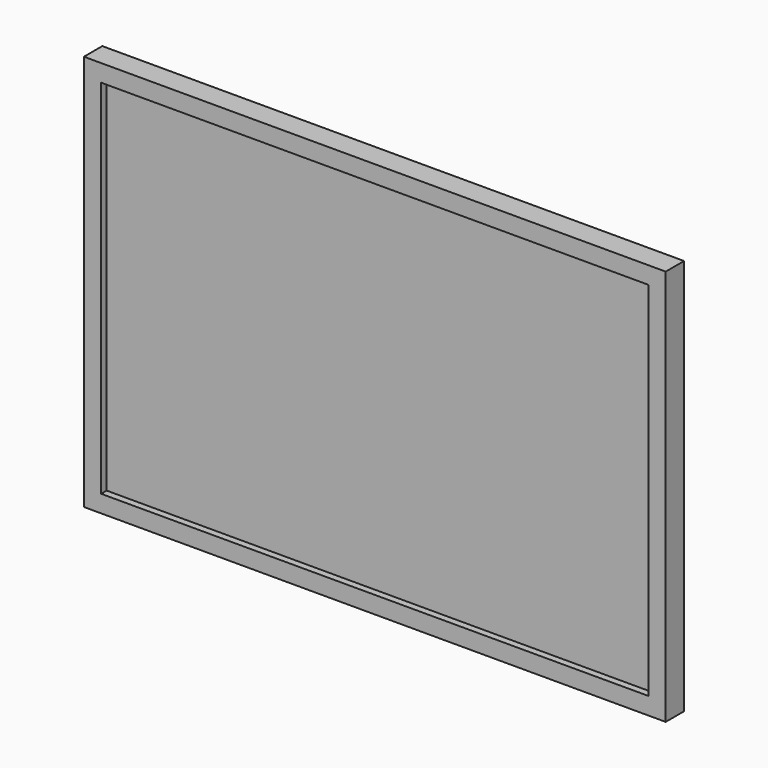
from build123d import *

# Parameters (mm, degrees)
F0_W     = 642.62
F0_H     = 437.896
F1_DEPTH = 25.4
F3_D     = 8.89
F3_DEPTH = 8.89
F3_TIP   = 2.6708254516
F4_W     = 604.52
F4_H     = 399.796
F5_DEPTH = 7.62


with BuildPart() as f1:
    # F0 (on Front) → F1 (new body)
    with BuildSketch(Plane.XZ):
        with Locations((321.31, 218.948)):
            Rectangle(F0_W, F0_H)
    extrude(amount=F1_DEPTH)

    # F3
    with Locations(Plane(origin=(0, 0, 0), x_dir=(-1, 0, 0), z_dir=(0, 1, 0))):
        with Locations((-372.11, 269.748), (-270.51, 269.748), (-270.51, 168.148), (-372.11, 168.148)):
            Hole(F3_D / 2, depth=F3_DEPTH)
            with Locations((0, 0, -(F3_DEPTH + F3_TIP / 2))):  # 118° drill point
                Cone(0, F3_D / 2, F3_TIP, mode=Mode.SUBTRACT)

    # F4 (on face) → F5 (cut)
    with BuildSketch(Plane.XZ.offset(25.4)):
        with Locations((321.31, 218.948)):
            Rectangle(F4_W, F4_H)
    extrude(amount=-F5_DEPTH, mode=Mode.SUBTRACT)


solid = f1.part
